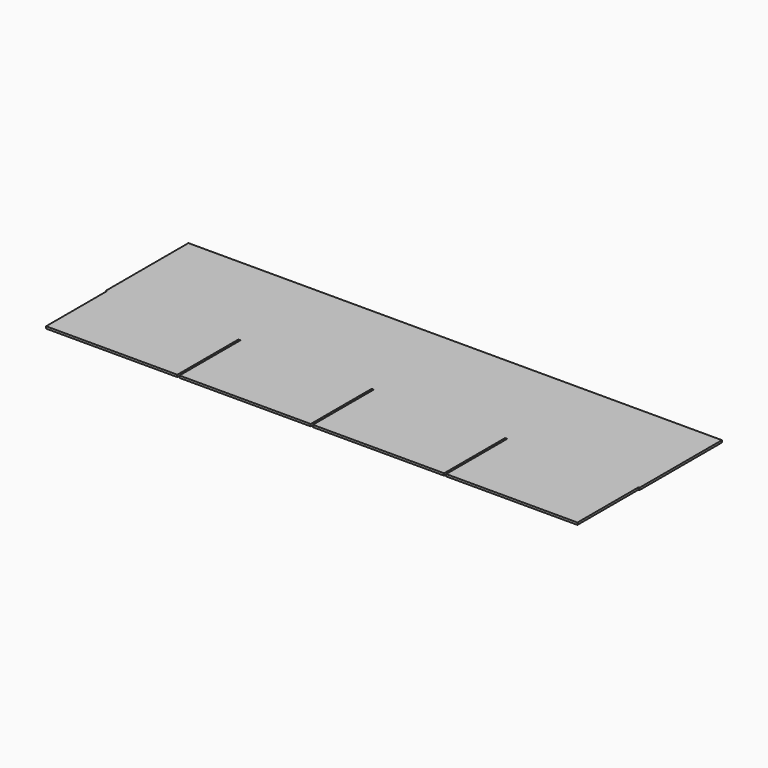
from build123d import *

# Parameters (mm, degrees)
F1_DEPTH = 4


with BuildPart() as f1:
    # F0 (on Top) → F1 (new body)
    with BuildSketch(Plane.XY):
        Polygon((1000, 0), (0, 0), (0, -193), (2, -193), (2, -336), (248, -336), (248, -193), (250, -193), (252, -193), (252, -336), (498, -336), (498, -193), (500, -193), (502, -193), (502, -336), (748, -336), (748, -193), (750, -193), (752, -193), (752, -336), (998, -336), (998, -193), (1000, -193), align=None)
    extrude(amount=-F1_DEPTH)


solid = f1.part
